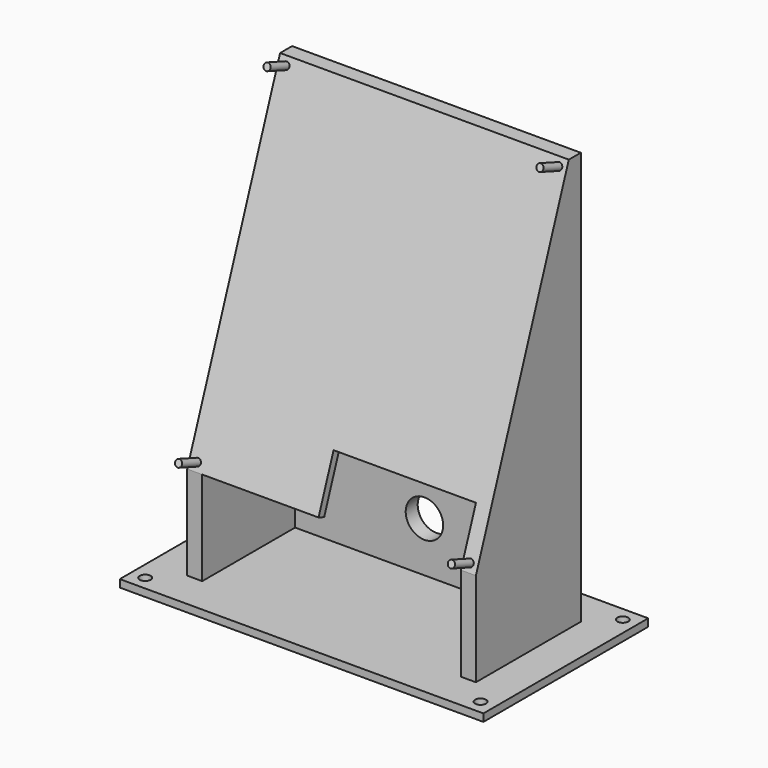
from build123d import *

# Parameters (mm, degrees)
SKETCH001_W     = 145.57
SKETCH001_H     = 82.477117
SKETCH001_R     = 2.185
PAD_DEPTH       = 3
PAD001_DEPTH    = 165.3
SKETCH004_W     = 328.820023
SKETCH004_H     = 275.658927
POCKET_DEPTH    = 200
PAD002_DEPTH    = 3
SKETCH003_R     = 1.4
PAD003_DEPTH    = 10
SKETCH005_R     = 7.5
POCKET001_DEPTH = 46.158923


with BuildPart() as part:
    # Sketch001 → Pad (new body)
    with BuildSketch(Plane.XY):
        with Locations((0, 4.919365)):
            Rectangle(SKETCH001_W, SKETCH001_H)
        with Locations((-67.128146, 40.501069)):
            Circle(SKETCH001_R, mode=Mode.SUBTRACT)
        with Locations((67.128146, 40.501069)):
            Circle(SKETCH001_R, mode=Mode.SUBTRACT)
        with Locations((67.128146, -30.66234)):
            Circle(SKETCH001_R, mode=Mode.SUBTRACT)
        with Locations((-67.128146, -30.66234)):
            Circle(SKETCH001_R, mode=Mode.SUBTRACT)
    extrude(amount=-PAD_DEPTH)

    # Sketch → Pad001 (join)
    with BuildSketch(Plane.XY):
        Polygon((51.785, -21.319194), (57.785, -21.319194), (57.785, 31.157923), (-57.785, 31.157923), (-57.785, -21.319194), (-51.785, -21.319194), (-51.785, 25.157923), (51.785, 25.157923), align=None)
    extrude(amount=PAD001_DEPTH)

    # Sketch004 (on DatumPlane) → Pocket (cut)
    with BuildSketch(Plane(origin=(0, -35, 0), x_dir=(1, 0, 0), z_dir=(0, -0.939693, 0.34202))):
        with Locations((-2.626228, 137.829464)):
            Rectangle(SKETCH004_W, SKETCH004_H)
    extrude(amount=POCKET_DEPTH, mode=Mode.SUBTRACT)

    # Sketch002 (on DatumPlane) → Pad002 (join)
    with BuildSketch(Plane(origin=(0, -35, 0), x_dir=(1, 0, 0), z_dir=(0, -0.939693, 0.34202))):
        Polygon((-57.785, 175.89), (57.785, 175.89), (57.785, 40), (51.785, 40), (51.785, 62), (-5.215, 62), (-5.215, 40), (-57.785, 40), align=None)
    extrude(amount=-PAD002_DEPTH)

    # Sketch003 (on DatumPlane) → Pad003 (join)
    with BuildSketch(Plane(origin=(0, -35, 0), x_dir=(1, 0, 0), z_dir=(0, -0.939693, 0.34202))):
        with Locations((-54.61, 172.715)):
            Circle(SKETCH003_R)
        with Locations((54.61, 172.715)):
            Circle(SKETCH003_R)
        with Locations((54.61, 43.175)):
            Circle(SKETCH003_R)
        with Locations((-54.61, 43.175)):
            Circle(SKETCH003_R)
    extrude(amount=PAD003_DEPTH)

    # Sketch005 → Pocket001 (cut, through all)
    with BuildSketch(Plane.XZ):
        with Locations((0, 20)):
            Circle(SKETCH005_R)
    extrude(amount=-POCKET001_DEPTH, mode=Mode.SUBTRACT)


solid = part.part
